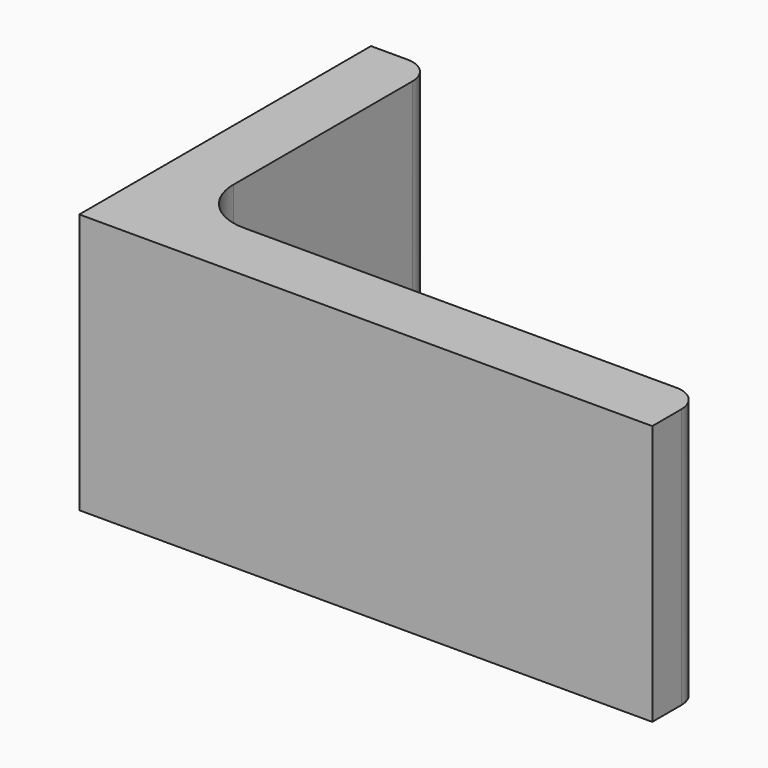
from build123d import *

# Parameters (mm, degrees)
EXTRUDE_DEPTH = 50


with BuildPart() as part:
    # Sketch → Extrude (new body)
    with BuildSketch(Plane.XY):
        with BuildLine():
            Line((0, 0), (110, 0))
            Line((110, 0), (110, 7))
            ThreePointArc((110, 7), (108.535534, 10.535534), (105, 12))
            Line((105, 12), (22, 12))
            ThreePointArc((12, 22), (14.928932, 14.928932), (22, 12))
            Line((12, 65), (12, 22))
            ThreePointArc((12, 65), (10.535534, 68.535534), (7, 70))
            Line((0, 70), (7, 70))
            Line((0, 0), (0, 70))
        make_face()
    extrude(amount=EXTRUDE_DEPTH)


solid = part.part
